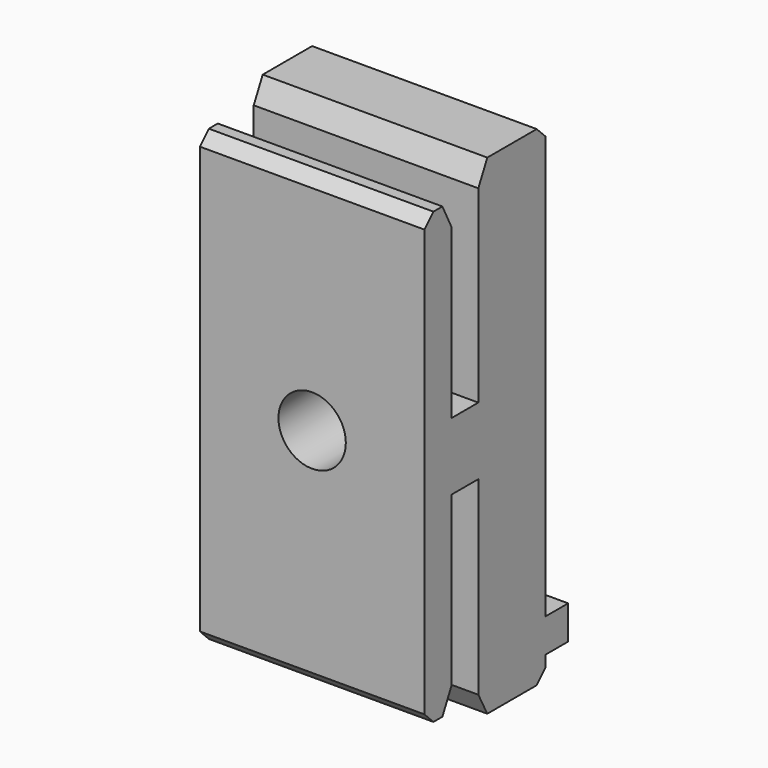
from build123d import *

# Parameters (mm, degrees)
CYLINDER019_R     = 3
CYLINDER019_DEPTH = 19
CYLINDER020_R     = 1.7
CYLINDER020_DEPTH = 19
BOX035_W          = 20
BOX035_H          = 6
BOX035_DEPTH      = 6
BOX034_W          = 20
BOX034_H          = 10
BOX034_DEPTH      = 3
BOX033_W          = 20
BOX033_H          = 7.5
BOX033_DEPTH      = 43.6
BOX036_W          = 20
BOX036_H          = 3
BOX036_DEPTH      = 40
CHAMFER026_SIZE2  = 2
CHAMFER026_SIZE   = 1
CHAMFER027_SIZE2  = 1
CHAMFER027_SIZE   = 2
CHAMFER028_SIZE2  = 1
CHAMFER028_SIZE   = 2
CHAMFER029_SIZE2  = 1
CHAMFER029_SIZE   = 1.9
CHAMFER030_SIZE   = 1


with BuildPart() as cylinder019:
    # Cylinder019 → Cylinder019 (new body)
    with BuildSketch(Plane(origin=(10, 4.5, 0), x_dir=(1, 0, 0), z_dir=(0, -1, 0))):
        Circle(CYLINDER019_R)
    extrude(amount=CYLINDER019_DEPTH)


with BuildPart() as cylinder020:
    # Cylinder020 → Cylinder020 (new body)
    with BuildSketch(Plane(origin=(10, 9, 0), x_dir=(1, 0, 0), z_dir=(0, -1, 0))):
        Circle(CYLINDER020_R)
    extrude(amount=CYLINDER020_DEPTH)


with BuildPart() as cube035:
    # Box035 → Box035 (new body)
    with BuildSketch(Plane(origin=(0, -6, -3), x_dir=(1, 0, 0), z_dir=(0, 0, 1))):
        with Locations((10, 3)):
            Rectangle(BOX035_W, BOX035_H)
    extrude(amount=BOX035_DEPTH)


with BuildPart() as cube034:
    # Box034 → Box034 (new body)
    with BuildSketch(Plane.XY.offset(-19.8)):
        with Locations((10, 5)):
            Rectangle(BOX034_W, BOX034_H)
    extrude(amount=BOX034_DEPTH)


with BuildPart() as cube033:
    # Box033 → Box033 (new body)
    with BuildSketch(Plane.XY.offset(-21.8)):
        with Locations((10, 3.75)):
            Rectangle(BOX033_W, BOX033_H)
    extrude(amount=BOX033_DEPTH)


with BuildPart() as clip_side_mid_center:
    # Box036 → Box036 (new body)
    with BuildSketch(Plane(origin=(0, -6, -20), x_dir=(1, 0, 0), z_dir=(0, 0, 1))):
        with Locations((10, 1.5)):
            Rectangle(BOX036_W, BOX036_H)
    extrude(amount=BOX036_DEPTH)

    # Fusion013: union Cube035, Cube034, Cube033
    add(cube035.part)
    add(cube034.part)
    add(cube033.part)

    # Chamfer026
    chamfer026_edges = [clip_side_mid_center.edges().sort_by_distance(p)[0] for p in [
        (10, -3, 20),
    ]]
    chamfer026_side = clip_side_mid_center.faces().sort_by_distance((10, -4.5, 20))[0]
    chamfer(chamfer026_edges, length=CHAMFER026_SIZE, length2=CHAMFER026_SIZE2, reference=chamfer026_side)

    # Chamfer027
    chamfer027_edges = [clip_side_mid_center.edges().sort_by_distance(p)[0] for p in [
        (10, -3, -20),
    ]]
    chamfer027_side = clip_side_mid_center.faces().sort_by_distance((10, -3, -11.5))[0]
    chamfer(chamfer027_edges, length=CHAMFER027_SIZE, length2=CHAMFER027_SIZE2, reference=chamfer027_side)

    # Chamfer028
    chamfer028_edges = [clip_side_mid_center.edges().sort_by_distance(p)[0] for p in [
        (10, 0, 21.8),
    ]]
    chamfer028_side = clip_side_mid_center.faces().sort_by_distance((10, 0, 12.4))[0]
    chamfer(chamfer028_edges, length=CHAMFER028_SIZE, length2=CHAMFER028_SIZE2, reference=chamfer028_side)

    # Chamfer029
    chamfer029_edges = [clip_side_mid_center.edges().sort_by_distance(p)[0] for p in [
        (10, 0, -21.8),
    ]]
    chamfer029_side = clip_side_mid_center.faces().sort_by_distance((10, 0, -20.8))[0]
    chamfer(chamfer029_edges, length=CHAMFER029_SIZE, length2=CHAMFER029_SIZE2, reference=chamfer029_side)

    # Chamfer030
    chamfer030_edges = [clip_side_mid_center.edges().sort_by_distance(p)[0] for p in [
        (10, 7.5, -21.8),
        (10, 7.5, 21.8),
        (10, -6, -20),
        (10, -6, 20),
    ]]
    chamfer(chamfer030_edges, length=CHAMFER030_SIZE)

    # Cut016: cut Cylinder020
    add(cylinder020.part, mode=Mode.SUBTRACT)

    # Cut017: cut Cylinder019
    add(cylinder019.part, mode=Mode.SUBTRACT)


solid = clip_side_mid_center.part
